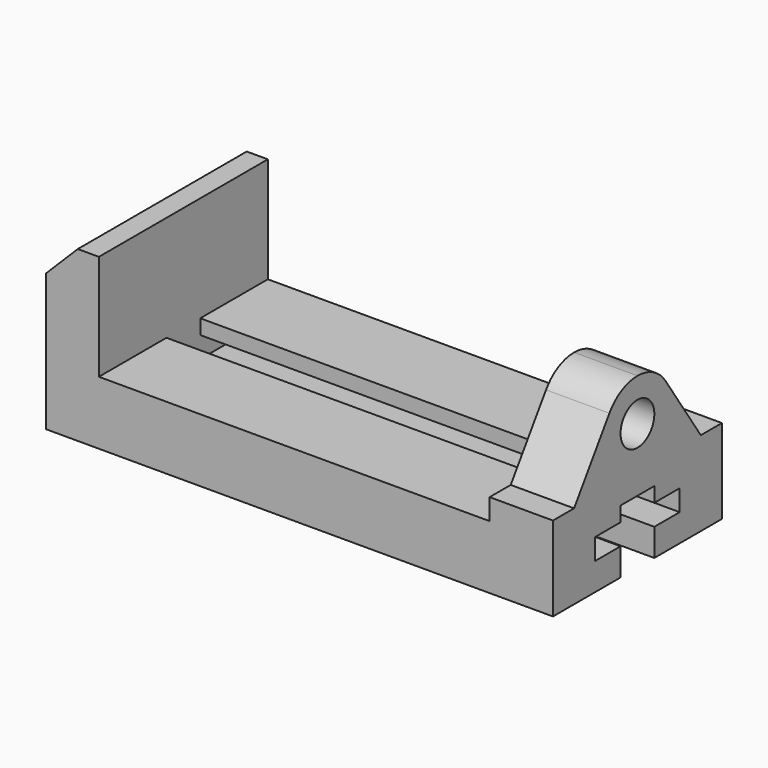
from build123d import *

# Parameters (mm, degrees)
F1_DEPTH = 63.5
F3_DEPTH = 38.1
F2_R     = 12.7
F4_DEPTH = 38.1
F5_DEPTH = 273.05


with BuildPart() as f1:
    # F0 (on Front) → F1 (new body, symmetric)
    with BuildSketch(Plane.XZ):
        Polygon((-304.8, 0), (0, 0), (0, 101.6), (-38.1, 101.6), (-38.1, 38.1), (-273.05, 38.1), (-273.05, 101.6), (-285.75, 101.6), (-304.8, 82.55), align=None)
    extrude(amount=F1_DEPTH, both=True)

    # F2 (on face) → F3 (cut, through all)
    with BuildSketch(Plane.YZ):
        with BuildLine():
            Line((-63.5, 101.6), (-63.5, 50.8))
            Line((-63.5, 50.8), (-47.625, 50.8))
            Line((-47.625, 50.8), (-21.093426, 90.350173))
            ThreePointArc((-21.093426, 90.350173), (-11.952941, 98.611765), (0, 101.6))
            Line((0, 101.6), (-63.5, 101.6))
        make_face()
        with BuildLine():
            Line((63.5, 101.6), (0, 101.6))
            ThreePointArc((0, 101.6), (11.952941, 98.611765), (21.093426, 90.350173))
            Line((21.093426, 90.350173), (47.625, 50.8))
            Line((47.625, 50.8), (63.5, 50.8))
            Line((63.5, 50.8), (63.5, 101.6))
        make_face()
    extrude(amount=-F3_DEPTH, mode=Mode.SUBTRACT)

    # F2 (on face) → F4 (cut, through all)
    with BuildSketch(Plane.YZ):
        with Locations((0, 76.2)):
            Circle(F2_R)
    extrude(amount=-F4_DEPTH, mode=Mode.SUBTRACT)

    # F2 (on face) → F5 (cut, through all)
    with BuildSketch(Plane.YZ):
        Polygon((-12.7, 16.51), (-12.7, 0), (0, 0), (12.7, 0), (12.7, 16.51), (31.75, 16.51), (31.75, 29.21), (12.7, 29.21), (12.7, 38.1), (-12.7, 38.1), (-12.7, 29.21), (-31.75, 29.21), (-31.75, 16.51), align=None)
    extrude(amount=-F5_DEPTH, mode=Mode.SUBTRACT)


solid = f1.part
